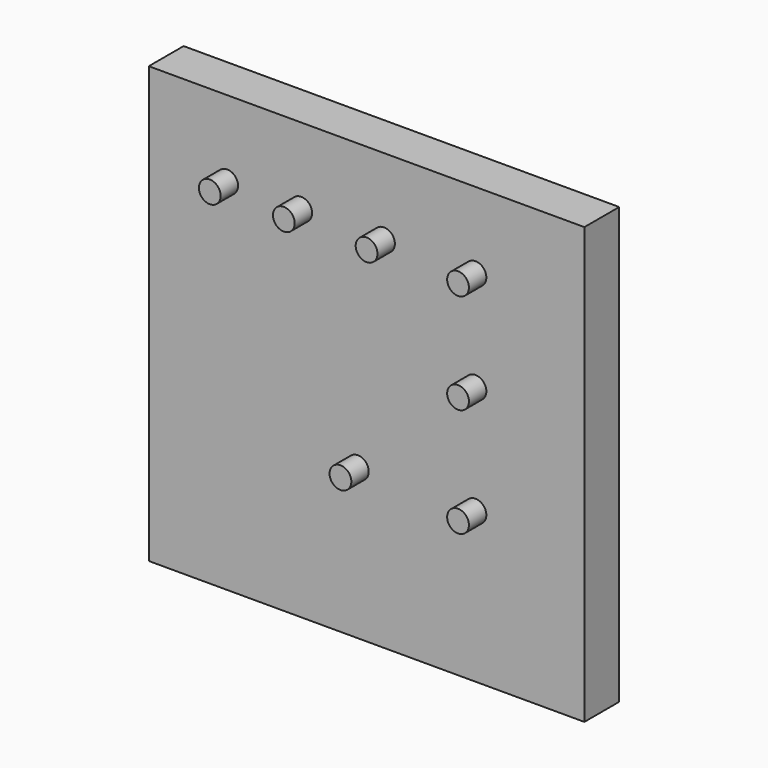
from build123d import *

# Parameters (mm, degrees)
F0_W     = 100
F0_H     = 100
F0_R     = 2.5
F1_DEPTH = 10
F2_R     = 2.5
F3_DEPTH = 5


with BuildPart() as f1:
    # F0 (on Front) → F1 (new body)
    with BuildSketch(Plane.XZ):
        with Locations((50, 50)):
            Rectangle(F0_W, F0_H)
        with Locations((12, 81.869952)):
            Circle(F0_R, mode=Mode.SUBTRACT)
        with Locations((29, 81.869952)):
            Circle(F0_R, mode=Mode.SUBTRACT)
        with Locations((48, 81.869952)):
            Circle(F0_R, mode=Mode.SUBTRACT)
        with Locations((69, 81.869952)):
            Circle(F0_R, mode=Mode.SUBTRACT)
        with Locations((12, 81.869952)):
            Circle(F0_R)
        with Locations((29, 81.869952)):
            Circle(F0_R)
        with Locations((48, 81.869952)):
            Circle(F0_R)
        with Locations((69, 81.869952)):
            Circle(F0_R)
    extrude(amount=F1_DEPTH)

    # F2 (on face) → F3 (join)
    with BuildSketch(Plane.XZ.offset(10)):
        with Locations((18, 82.490392)):
            Circle(F2_R)
        with Locations((35, 82.490392)):
            Circle(F2_R)
        with Locations((54, 82.490392)):
            Circle(F2_R)
        with Locations((75, 82.490392)):
            Circle(F2_R)
        with Locations((75, 59.490392)):
            Circle(F2_R)
        with Locations((75, 34.490392)):
            Circle(F2_R)
        with Locations((48, 34.490392)):
            Circle(F2_R)
    extrude(amount=F3_DEPTH)


solid = f1.part
